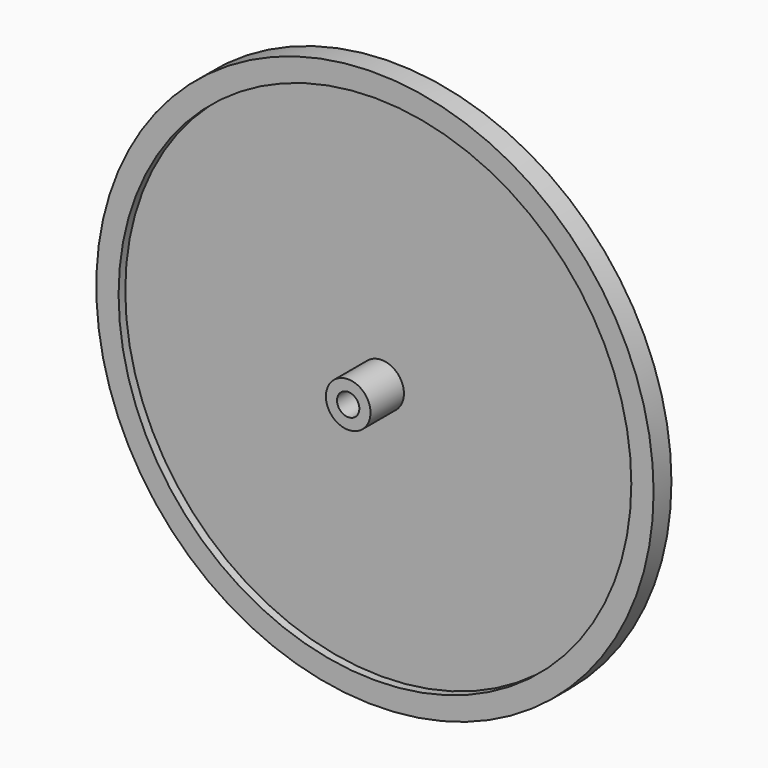
from build123d import *

# Parameters (mm, degrees)
F0_R          = 2.54
F0_R_2        = 1.27
F1_DEPTH      = 5.08
F1_DEPTH_BACK = 1.27
F0_R_3        = 31.75
F0_R_4        = 29.21
F2_DEPTH      = 1.27
F2_DEPTH_BACK = 1.27
F3_DEPTH      = 0.3175
F3_DEPTH_BACK = 0.3175


with BuildPart() as f1:
    # F0 (on Front) → F1 (new body, two sides)
    with BuildSketch(Plane.XZ) as f1_sk:
        Circle(F0_R)
        Circle(F0_R_2, mode=Mode.SUBTRACT)
    extrude(amount=F1_DEPTH)
    extrude(f1_sk.sketch, amount=-F1_DEPTH_BACK)


with BuildPart() as f2:
    # F0 (on Front) → F2 (new body, two sides)
    with BuildSketch(Plane.XZ) as f2_sk:
        Circle(F0_R_3)
        Circle(F0_R_4, mode=Mode.SUBTRACT)
    extrude(amount=F2_DEPTH)
    extrude(f2_sk.sketch, amount=-F2_DEPTH_BACK)


with BuildPart() as f3:
    # F0 (on Front) → F3 (new body, two sides)
    with BuildSketch(Plane.XZ) as f3_sk:
        Circle(F0_R_4)
        Circle(F0_R, mode=Mode.SUBTRACT)
    extrude(amount=F3_DEPTH)
    extrude(f3_sk.sketch, amount=-F3_DEPTH_BACK)


solid = Compound([f1.part, f2.part, f3.part])
